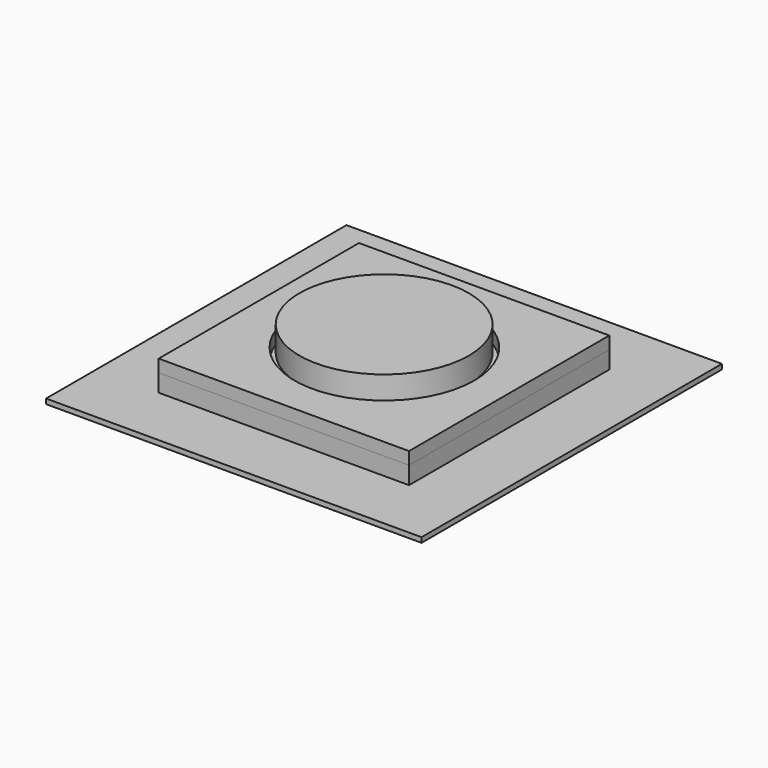
from build123d import *

# Parameters (mm, degrees)
SKETCH_W     = 100
SKETCH_H     = 100
SKETCH_W_2   = 97
SKETCH_H_2   = 97
PAD_DEPTH    = 15
SKETCH001_W  = 100
SKETCH001_H  = 100
SKETCH001_R  = 35.849998
PAD001_DEPTH = 5
SKETCH002_R  = 33.843326
PAD002_DEPTH = 10
SKETCH003_W  = 150
SKETCH003_H  = 150
PAD003_DEPTH = 2


with BuildPart() as body:
    # Sketch → Pad (new body)
    with BuildSketch(Plane.XY):
        Rectangle(SKETCH_W, SKETCH_H)
        Rectangle(SKETCH_W_2, SKETCH_H_2, mode=Mode.SUBTRACT)
    extrude(amount=PAD_DEPTH)


with BuildPart() as body001:
    # Sketch001 → Pad001 (new body)
    with BuildSketch(Plane.XY):
        Rectangle(SKETCH001_W, SKETCH001_H)
        with Locations((0.289193, -0.166984)):
            Circle(SKETCH001_R, mode=Mode.SUBTRACT)
    extrude(amount=PAD001_DEPTH)


with BuildPart() as body001_1:
    # Body001 placement: moved
    add(body001.part.moved(Location((0, 0, 15))))


with BuildPart() as body002:
    # Sketch002 → Pad002 (new body)
    with BuildSketch(Plane.XY):
        with Locations((0.082985, -0.026445)):
            Circle(SKETCH002_R)
    extrude(amount=PAD002_DEPTH)


with BuildPart() as body002_1:
    # Body002 placement: moved
    add(body002.part.moved(Location((0, 0, 18))))


with BuildPart() as body003:
    # Sketch003 → Pad003 (new body)
    with BuildSketch(Plane.XY):
        Rectangle(SKETCH003_W, SKETCH003_H)
    extrude(amount=PAD003_DEPTH)


with BuildPart() as body003_1:
    # Body003 placement: moved
    add(body003.part.moved(Location((0, 0, 6))))


solid = Compound([body.part, body001_1.part, body002_1.part, body003_1.part])
